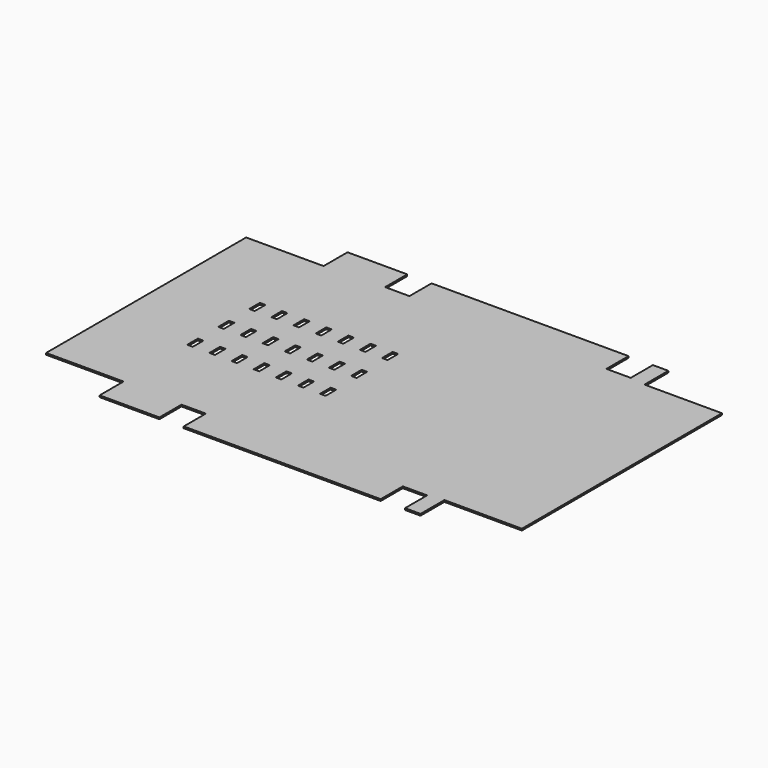
from build123d import *

# Parameters (mm, degrees)
F0_W     = 0.5
F0_H     = 1.2
F1_DEPTH = 0.15


with BuildPart() as f1:
    # F0 (on Top) → F1 (new body)
    with BuildSketch(Plane.XY):
        Polygon((25.1875, -11.3), (32.1875, -11.3), (32.1875, 11.3), (25.1875, 11.3), (25.1875, 14), (23.7875, 14), (23.7875, 11.5), (21.5875, 11.5), (21.5875, 14), (3.7875, 14), (3.7875, 11.5), (1.5875, 11.5), (1.5875, 14), (-3.8125, 14), (-3.8125, 11.3), (-10.8125, 11.3), (-10.8125, -11.3), (-3.8125, -11.3), (-3.8125, -14), (1.5875, -14), (1.5875, -11.5), (3.7875, -11.5), (3.7875, -14), (21.5875, -14), (21.5875, -11.5), (23.7875, -11.5), (23.7875, -14), (25.1875, -14), align=None)
        with Locations((-3.5625, -3.499541)):
            Rectangle(F0_W, F0_H, mode=Mode.SUBTRACT)
        with Locations((-1.5625, -3.499541)):
            Rectangle(F0_W, F0_H, mode=Mode.SUBTRACT)
        with Locations((0.4375, -3.499541)):
            Rectangle(F0_W, F0_H, mode=Mode.SUBTRACT)
        with Locations((2.4375, -3.499541)):
            Rectangle(F0_W, F0_H, mode=Mode.SUBTRACT)
        with Locations((4.4375, -3.499541)):
            Rectangle(F0_W, F0_H, mode=Mode.SUBTRACT)
        with Locations((6.4375, -3.499541)):
            Rectangle(F0_W, F0_H, mode=Mode.SUBTRACT)
        with Locations((8.4375, -3.499541)):
            Rectangle(F0_W, F0_H, mode=Mode.SUBTRACT)
        with Locations((-3.5625, 0.000459)):
            Rectangle(F0_W, F0_H, mode=Mode.SUBTRACT)
        with Locations((-1.5625, 0.000459)):
            Rectangle(F0_W, F0_H, mode=Mode.SUBTRACT)
        with Locations((-3.5625, 3.500459)):
            Rectangle(F0_W, F0_H, mode=Mode.SUBTRACT)
        with Locations((-1.5625, 3.500459)):
            Rectangle(F0_W, F0_H, mode=Mode.SUBTRACT)
        with Locations((0.4375, 0.000459)):
            Rectangle(F0_W, F0_H, mode=Mode.SUBTRACT)
        with Locations((2.4375, 0.000459)):
            Rectangle(F0_W, F0_H, mode=Mode.SUBTRACT)
        with Locations((4.4375, 0.000459)):
            Rectangle(F0_W, F0_H, mode=Mode.SUBTRACT)
        with Locations((6.4375, 0.000459)):
            Rectangle(F0_W, F0_H, mode=Mode.SUBTRACT)
        with Locations((8.4375, 0.000459)):
            Rectangle(F0_W, F0_H, mode=Mode.SUBTRACT)
        with Locations((0.4375, 3.500459)):
            Rectangle(F0_W, F0_H, mode=Mode.SUBTRACT)
        with Locations((2.4375, 3.500459)):
            Rectangle(F0_W, F0_H, mode=Mode.SUBTRACT)
        with Locations((4.4375, 3.500459)):
            Rectangle(F0_W, F0_H, mode=Mode.SUBTRACT)
        with Locations((6.4375, 3.500459)):
            Rectangle(F0_W, F0_H, mode=Mode.SUBTRACT)
        with Locations((8.4375, 3.500459)):
            Rectangle(F0_W, F0_H, mode=Mode.SUBTRACT)
    extrude(amount=F1_DEPTH)


solid = f1.part
